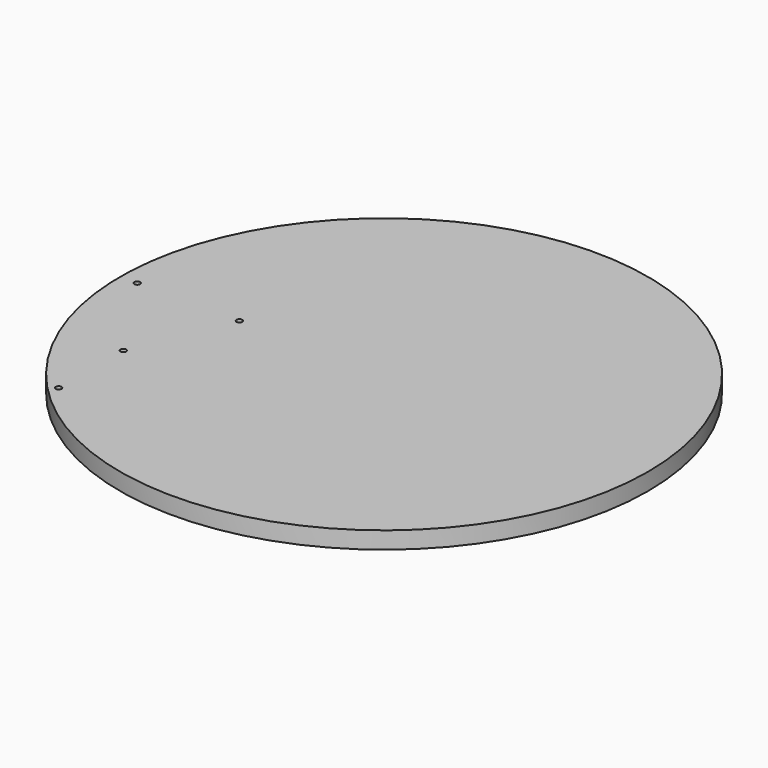
from build123d import *

# Parameters (mm, degrees)
F0_R     = 196.85
F1_DEPTH = 12.7
F2_R     = 2.15265
F3_DEPTH = 12.7


with BuildPart() as f1:
    # F0 (on Top) → F1 (new body)
    with BuildSketch(Plane.XY):
        Circle(F0_R)
    extrude(amount=F1_DEPTH)

    # F2 (on face) → F3 (cut, through all)
    with BuildSketch(Plane.XY.offset(12.7)):
        with Locations((-137.31875, -71.4375)):
            Circle(F2_R)
        with Locations((-137.31875, -131.7625)):
            Circle(F2_R)
        with Locations((-197.64375, -71.4375)):
            Circle(F2_R)
        with Locations((-197.64375, -131.7625)):
            Circle(F2_R)
        with Locations((-107.95, 0)):
            Circle(F2_R)
        with Locations((-184.15, 0)):
            Circle(F2_R)
    extrude(amount=-F3_DEPTH, mode=Mode.SUBTRACT)


solid = f1.part
